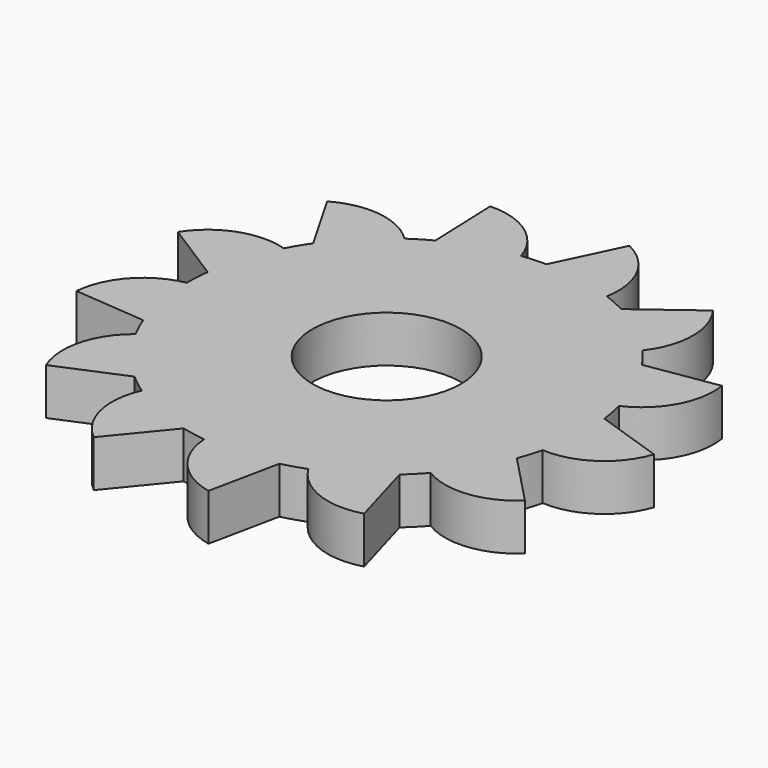
from build123d import *

# Parameters (mm, degrees)
F0_R     = 11.15
F1_DEPTH = 7


with BuildPart() as f1:
    # F0 (on Top) → F1 (new body)
    with BuildSketch(Plane.XY):
        with BuildLine():
            ThreePointArc((29.136052, -7.147761), (29.78323, -3.599892), (30, 0))
            ThreePointArc((30, 0), (29.945267, 1.811355), (29.781266, 3.6161))
            ThreePointArc((29.781266, 3.6161), (29.50565, 5.42371), (29.120423, 7.211171))
            ThreePointArc((29.120423, 7.211171), (27.350291, 12.327271), (24.689516, 17.041942))
            ThreePointArc((24.689516, 17.041942), (23.605432, 18.514416), (22.433656, 19.91811))
            ThreePointArc((22.433656, 19.91811), (18.488711, 23.62557), (13.941695, 26.563681))
            ThreePointArc((13.941695, 26.563681), (12.297494, 27.363692), (10.607608, 28.06205))
            ThreePointArc((10.607608, 28.06205), (5.391591, 29.511536), (0, 30))
            ThreePointArc((0, 30), (-1.827652, 29.944276), (-3.648514, 29.777313))
            ThreePointArc((-3.648514, 29.777313), (-8.940678, 28.636764), (-13.941695, 26.563681))
            ThreePointArc((-13.941695, 26.563681), (-15.534104, 25.664988), (-17.068806, 24.670952))
            ThreePointArc((-17.068806, 24.670952), (-21.224745, 21.201655), (-24.689516, 17.041942))
            ThreePointArc((-24.689516, 17.041942), (-25.681881, 15.50616), (-26.57884, 13.912773))
            ThreePointArc((-26.57884, 13.912773), (-28.646479, 8.909503), (-29.781266, 3.6161))
            ThreePointArc((-29.781266, 3.6161), (-29.946248, 1.795057), (-29.999982, -0.032654))
            ThreePointArc((-29.999982, -0.032654), (-29.50565, -5.42371), (-28.050487, -10.638147))
            ThreePointArc((-28.050487, -10.638147), (-27.350291, -12.327271), (-26.54849, -13.970601))
            ThreePointArc((-26.54849, -13.970601), (-23.605432, -18.514416), (-19.89368, -22.455322))
            ThreePointArc((-19.89368, -22.455322), (-18.488711, -23.62557), (-17.015059, -24.708051))
            ThreePointArc((-17.015059, -24.708051), (-12.297494, -27.363692), (-7.17947, -29.128255))
            ThreePointArc((-7.17947, -29.128255), (-5.391591, -29.511536), (-3.583682, -29.785185))
            ThreePointArc((-3.583682, -29.785185), (1.827652, -29.944276), (7.17947, -29.128255))
            ThreePointArc((7.17947, -29.128255), (8.940678, -28.636764), (10.668672, -28.038891))
            ThreePointArc((10.668672, -28.038891), (15.534104, -25.664988), (19.89368, -22.455322))
            ThreePointArc((19.89368, -22.455322), (21.224745, -21.201655), (22.476963, -19.869226))
            ThreePointArc((22.476963, -19.869226), (25.681881, -15.50616), (28.050487, -10.638147))
            ThreePointArc((28.050487, -10.638147), (28.646479, -8.909503), (29.136052, -7.147761))
        make_face()
        Circle(F0_R, mode=Mode.SUBTRACT)
        with BuildLine():
            ThreePointArc((29.781266, 3.6161), (29.945267, 1.811355), (30, 0))
            ThreePointArc((30, 0), (29.78323, -3.599892), (29.136052, -7.147761))
            ThreePointArc((29.136052, -7.147761), (35.806705, -5.326555), (39.99963, 0.171969))
            Line((39.99963, 0.171969), (29.781266, 3.6161))
        make_face()
        with BuildLine():
            ThreePointArc((24.689516, 17.041942), (27.350291, 12.327271), (29.120423, 7.211171))
            ThreePointArc((29.120423, 7.211171), (34.180636, 11.923775), (35.337996, 18.741026))
            Line((35.337996, 18.741026), (24.689516, 17.041942))
        make_face()
        with BuildLine():
            Line((35.497832, -18.436484), (28.050487, -10.638147))
            ThreePointArc((28.050487, -10.638147), (25.681881, -15.50616), (22.476963, -19.869226))
            ThreePointArc((22.476963, -19.869226), (29.229889, -21.356636), (35.497832, -18.436484))
        make_face()
        with BuildLine():
            ThreePointArc((13.941695, 26.563681), (18.488711, 23.62557), (22.433656, 19.91811))
            ThreePointArc((22.433656, 19.91811), (24.724196, 26.442512), (22.580852, 33.01674))
            Line((22.580852, 33.01674), (13.941695, 26.563681))
        make_face()
        with BuildLine():
            Line((22.863908, -32.821361), (19.89368, -22.455322))
            ThreePointArc((19.89368, -22.455322), (15.534104, -25.664988), (10.668672, -28.038891))
            ThreePointArc((10.668672, -28.038891), (15.956858, -32.494169), (22.863908, -32.821361))
        make_face()
        with BuildLine():
            ThreePointArc((0, 30), (5.391591, 29.511536), (10.607608, 28.06205))
            ThreePointArc((10.607608, 28.06205), (9.60374, 34.903588), (4.650707, 39.728717))
            Line((4.650707, 39.728717), (0, 30))
        make_face()
        with BuildLine():
            Line((4.992138, -39.687259), (7.17947, -29.128255))
            ThreePointArc((7.17947, -29.128255), (1.827652, -29.944276), (-3.583682, -29.785185))
            ThreePointArc((-3.583682, -29.785185), (-0.971697, -36.187679), (4.992138, -39.687259))
        make_face()
        with BuildLine():
            ThreePointArc((-13.941695, 26.563681), (-8.940678, 28.636764), (-3.648514, 29.777313))
            ThreePointArc((-3.648514, 29.777313), (-7.716817, 35.368673), (-14.344859, 37.339323))
            Line((-14.344859, 37.339323), (-13.941695, 26.563681))
        make_face()
        with BuildLine():
            Line((-14.02327, -37.461285), (-7.17947, -29.128255))
            ThreePointArc((-7.17947, -29.128255), (-12.297494, -27.363692), (-17.015059, -24.708051))
            ThreePointArc((-17.015059, -24.708051), (-17.677648, -31.591028), (-14.02327, -37.461285))
        make_face()
        with BuildLine():
            ThreePointArc((-24.689516, 17.041942), (-21.224745, 21.201655), (-17.068806, 24.670952))
            ThreePointArc((-17.068806, 24.670952), (-23.269544, 27.731221), (-30.05419, 26.39594))
            Line((-30.05419, 26.39594), (-24.689516, 17.041942))
        make_face()
        with BuildLine():
            Line((-29.826116, -26.653382), (-19.89368, -22.455322))
            ThreePointArc((-19.89368, -22.455322), (-23.605432, -18.514416), (-26.54849, -13.970601))
            ThreePointArc((-26.54849, -13.970601), (-30.333863, -19.757253), (-29.826116, -26.653382))
        make_face()
        with BuildLine():
            ThreePointArc((-29.781266, 3.6161), (-28.646479, 8.909503), (-26.57884, 13.912773))
            ThreePointArc((-26.57884, 13.912773), (-33.491499, 13.740881), (-38.878469, 9.405566))
            Line((-38.878469, 9.405566), (-29.781266, 3.6161))
        make_face()
        with BuildLine():
            Line((-38.796159, -9.73951), (-28.050487, -10.638147))
            ThreePointArc((-28.050487, -10.638147), (-29.50565, -5.42371), (-29.999982, -0.032654))
            ThreePointArc((-29.999982, -0.032654), (-36.040955, -3.39733), (-38.796159, -9.73951))
        make_face()
    extrude(amount=F1_DEPTH)


solid = f1.part
